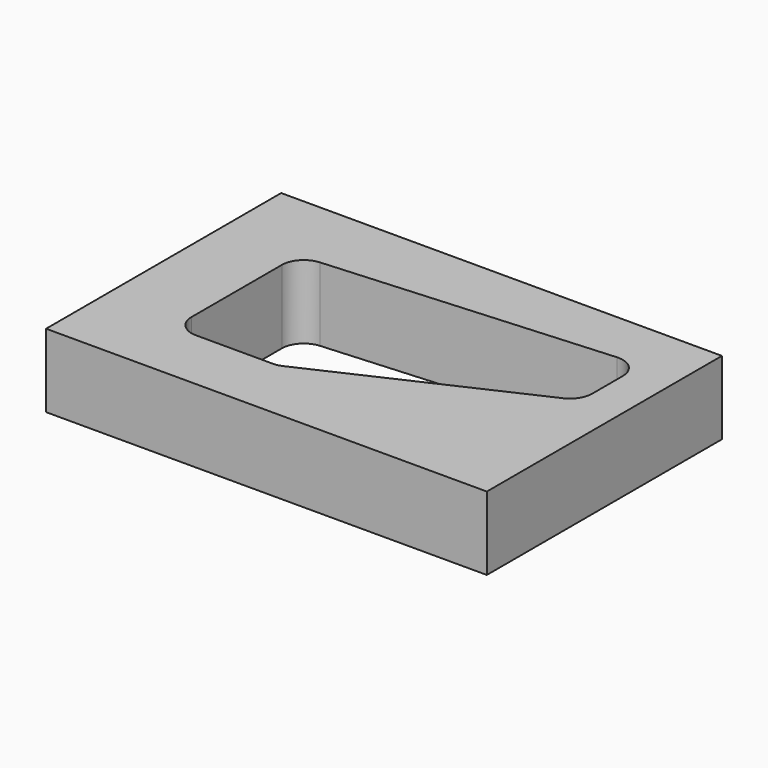
from build123d import *

# Parameters (mm, degrees)
F0_W     = 152.4
F0_H     = 101.6
F1_DEPTH = 25.4
F3_DEPTH = 25.4
F4_R     = 7.62


with BuildPart() as f1:
    # F0 (on Top) → F1 (new body)
    with BuildSketch(Plane.XY):
        with Locations((76.2, 50.8)):
            Rectangle(F0_W, F0_H)
    extrude(amount=F1_DEPTH)

    # F2 (on face) → F3 (cut)
    with BuildSketch(Plane.XY.offset(25.4)):
        Polygon((138.869882, 83.813608), (26.399821, 75.979866), (26.399821, 22.262821), (62.211186, 22.262821), (138.869882, 57.514634), align=None)
    extrude(amount=-F3_DEPTH, mode=Mode.SUBTRACT)

    # F4
    f4_edges = [f1.edges().sort_by_distance(p)[0] for p in [
        (26.399821, 75.979866, 12.7),
        (26.399821, 22.262821, 12.7),
        (62.211186, 22.262821, 12.7),
        (138.869882, 57.514634, 12.7),
        (138.869882, 83.813608, 12.7),
    ]]
    fillet(f4_edges, radius=F4_R)


solid = f1.part
